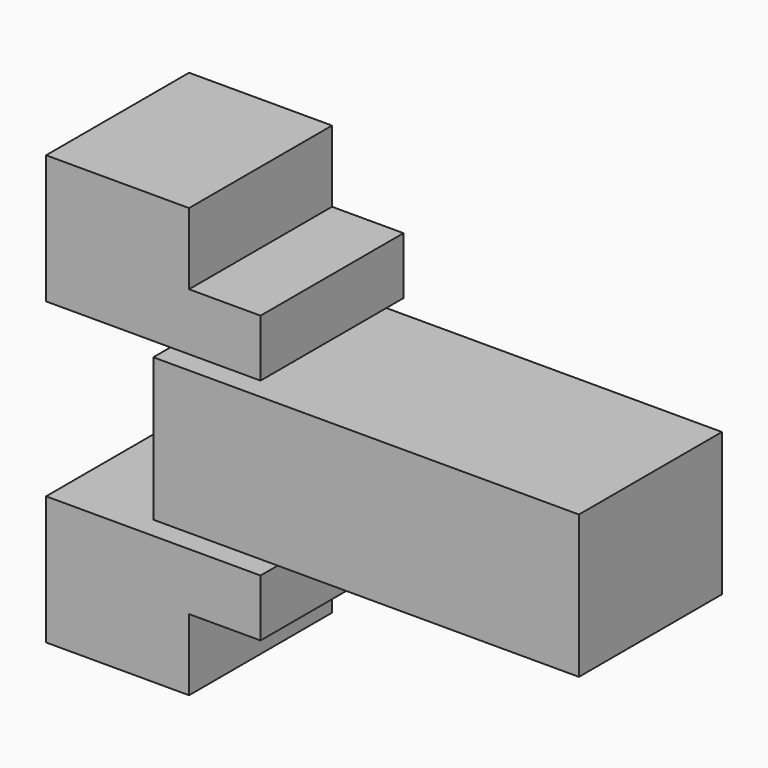
from build123d import *

# Parameters (mm, degrees)
F0_W     = 20
F0_H     = 10
F0_W_2   = 59.541454
F0_H_2   = 20
F1_DEPTH = 25


with BuildPart() as f1:
    # F0 (on Front) → F1 (new body)
    with BuildSketch(Plane.XZ):
        with Locations((55, 25)):
            Rectangle(F0_W, F0_H)
        Polygon((65, 20), (45, 20), (45, 12), (75, 12), (75, 20), align=None)
        with Locations((89.770727, 0)):
            Rectangle(F0_W_2, F0_H_2)
        Polygon((45, -12), (45, -20), (65, -20), (75, -20), (75, -12), align=None)
        with Locations((55, -25)):
            Rectangle(F0_W, F0_H)
    extrude(amount=F1_DEPTH)


solid = f1.part
